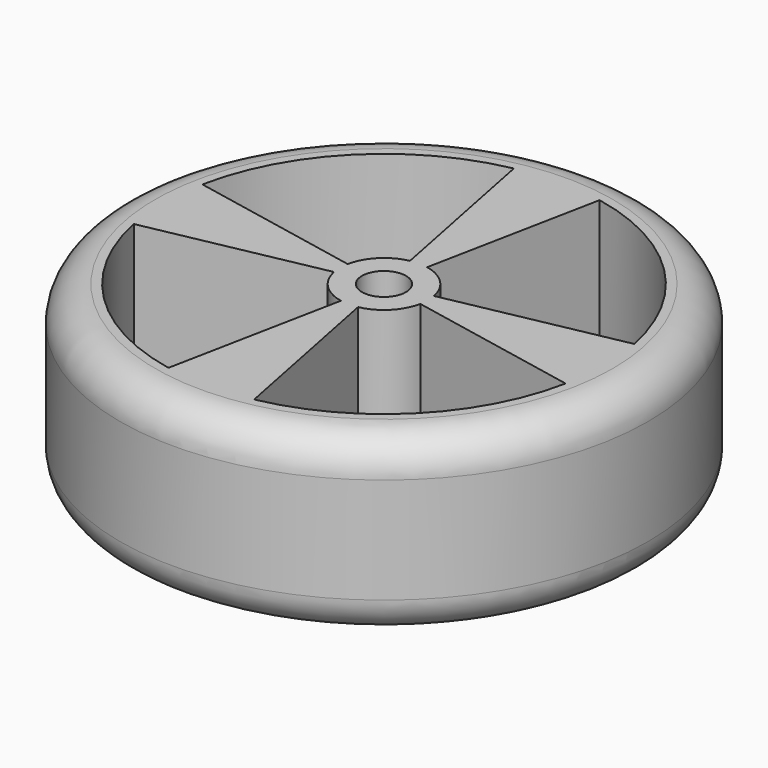
from build123d import *

# Parameters (mm, degrees)
F0_R     = 38.1
F0_R_2   = 3.175
F1_DEPTH = 25.4
F2_R     = 5.08


with BuildPart() as f1:
    # F0 (on Top) → F1 (new body)
    with BuildSketch(Plane.XY):
        Circle(F0_R)
        with BuildLine():
            ThreePointArc((-6.184076, -31.141928), (-22.45064, -22.45064), (-31.141928, -6.184076))
            Line((-31.141928, -6.184076), (-6.228386, -1.236815))
            ThreePointArc((-6.228386, -1.236815), (-4.490128, -4.490128), (-1.236815, -6.228386))
            Line((-1.236815, -6.228386), (-6.184076, -31.141928))
        make_face(mode=Mode.SUBTRACT)
        with BuildLine():
            ThreePointArc((31.141928, -6.184076), (22.45064, -22.45064), (6.184076, -31.141928))
            Line((6.184076, -31.141928), (1.236815, -6.228386))
            ThreePointArc((1.236815, -6.228386), (4.490128, -4.490128), (6.228386, -1.236815))
            Line((6.228386, -1.236815), (31.141928, -6.184076))
        make_face(mode=Mode.SUBTRACT)
        with BuildLine():
            ThreePointArc((-31.141928, 6.184076), (-22.45064, 22.45064), (-6.184076, 31.141928))
            Line((-6.184076, 31.141928), (-1.236815, 6.228386))
            ThreePointArc((-1.236815, 6.228386), (-4.490128, 4.490128), (-6.228386, 1.236815))
            Line((-6.228386, 1.236815), (-31.141928, 6.184076))
        make_face(mode=Mode.SUBTRACT)
        Circle(F0_R_2, mode=Mode.SUBTRACT)
        with BuildLine():
            ThreePointArc((6.184076, 31.141928), (22.45064, 22.45064), (31.141928, 6.184076))
            Line((31.141928, 6.184076), (6.228386, 1.236815))
            ThreePointArc((6.228386, 1.236815), (4.490128, 4.490128), (1.236815, 6.228386))
            Line((1.236815, 6.228386), (6.184076, 31.141928))
        make_face(mode=Mode.SUBTRACT)
    extrude(amount=-F1_DEPTH)

    # F2
    f2_edges = [f1.edges().sort_by_distance(p)[0] for p in [
        (38.1, 0, -12.7),
        (-38.1, 0, 0),
        (-38.1, 0, -25.4),
    ]]
    fillet(f2_edges, radius=F2_R)


solid = f1.part
